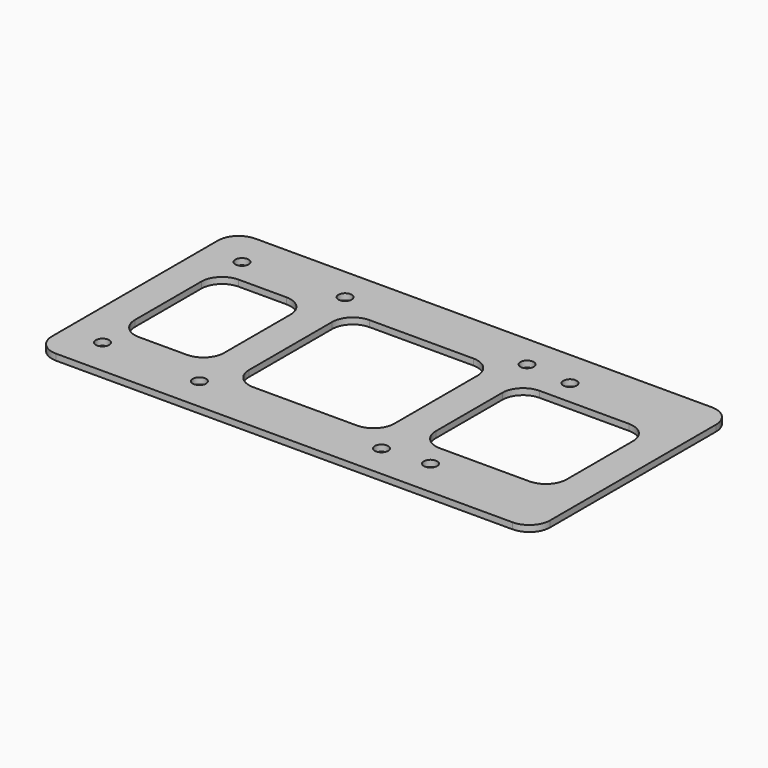
from build123d import *

# Parameters (mm, degrees)
F0_W     = 120
F0_H     = 60
F0_R     = 1.6
F0_W_2   = 21.5
F0_H_2   = 30
F0_W_3   = 35
F0_H_3   = 35
F0_W_4   = 31.5
F1_DEPTH = 1.5
F2_R     = 5


with BuildPart() as f1:
    # F0 (on Top) → F1 (new body)
    with BuildSketch(Plane.XY):
        Rectangle(F0_W, F0_H)
        with Locations((-51, -21)):
            Circle(F0_R, mode=Mode.SUBTRACT)
        with Locations((-26.92031, -21.92031)):
            Circle(F0_R, mode=Mode.SUBTRACT)
        with Locations((16.92031, -21.92031)):
            Circle(F0_R, mode=Mode.SUBTRACT)
        with Locations((28, -21)):
            Circle(F0_R, mode=Mode.SUBTRACT)
        with Locations((-41.25, 0)):
            Rectangle(F0_W_2, F0_H_2, mode=Mode.SUBTRACT)
        with Locations((-5, 0)):
            Rectangle(F0_W_3, F0_H_3, mode=Mode.SUBTRACT)
        with Locations((-51, 21)):
            Circle(F0_R, mode=Mode.SUBTRACT)
        with Locations((-26.92031, 21.92031)):
            Circle(F0_R, mode=Mode.SUBTRACT)
        with Locations((36.25, 0)):
            Rectangle(F0_W_4, F0_H_2, mode=Mode.SUBTRACT)
        with Locations((16.92031, 21.92031)):
            Circle(F0_R, mode=Mode.SUBTRACT)
        with Locations((28, 21)):
            Circle(F0_R, mode=Mode.SUBTRACT)
    extrude(amount=F1_DEPTH)

    # F2
    f2_edges = [f1.edges().sort_by_distance(p)[0] for p in [
        (-60, 30, 0.75),
        (-60, -30, 0.75),
        (60, -30, 0.75),
        (60, 30, 0.75),
        (-52, 15, 0.75),
        (-30.5, 15, 0.75),
        (-52, -15, 0.75),
        (-30.5, -15, 0.75),
        (-22.5, 17.5, 0.75),
        (12.5, 17.5, 0.75),
        (-22.5, -17.5, 0.75),
        (12.5, -17.5, 0.75),
        (20.5, -15, 0.75),
        (52, -15, 0.75),
        (52, 15, 0.75),
        (20.5, 15, 0.75),
    ]]
    fillet(f2_edges, radius=F2_R)


with BuildPart() as f3_1:
    # F3: copy of F1
    add(f1.part)


solid = Compound([f1.part, f3_1.part])
